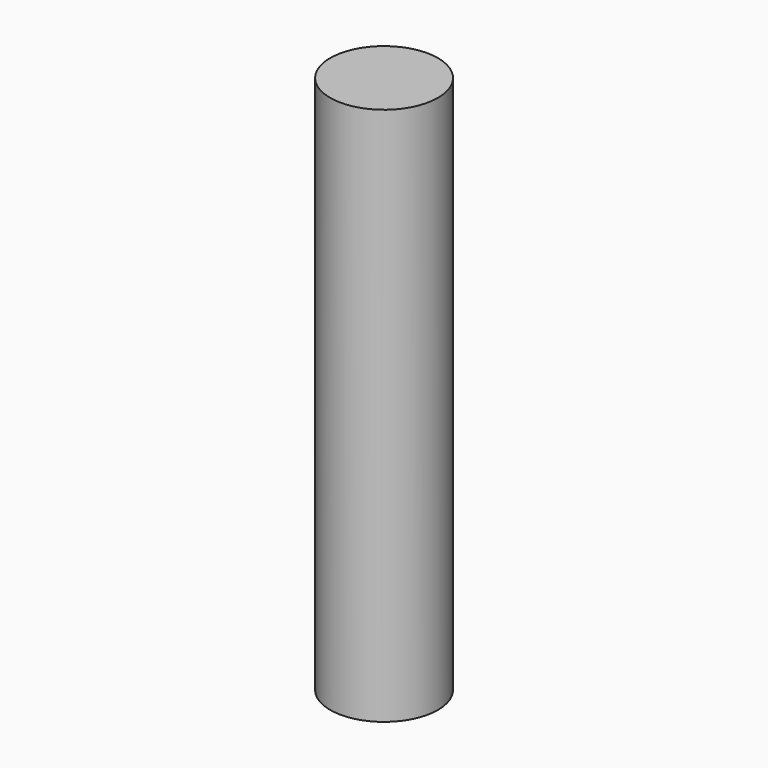
from build123d import *

# Parameters (mm, degrees)
SKETCH_R  = 10
PAD_DEPTH = 100


with BuildPart() as part:
    # Sketch → Pad (new body)
    with BuildSketch(Plane.XY):
        Circle(SKETCH_R)
    extrude(amount=PAD_DEPTH)


solid = part.part
